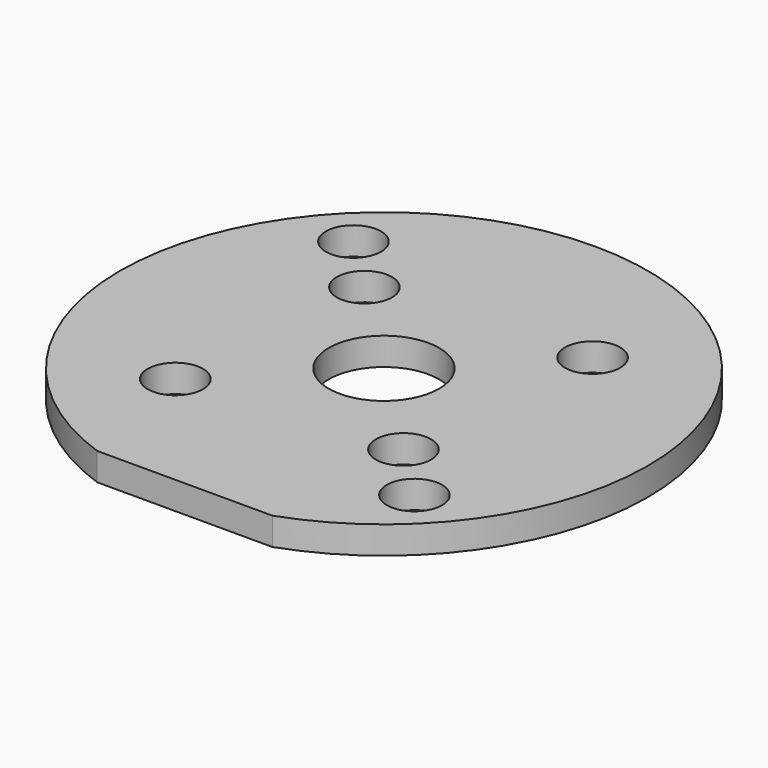
from build123d import *

# Parameters (mm, degrees)
F0_R     = 1.6
F0_R_2   = 3.2
F1_DEPTH = 1.6


with BuildPart() as f1:
    # F0 (on Top) → F1 (new body)
    with BuildSketch(Plane.XY):
        with BuildLine():
            Line((-5.08, -14.432034), (5.08, -14.432034))
            ThreePointArc((5.08, -14.432034), (0, 15.3), (-5.08, -14.432034))
        make_face()
        with Locations((-6.717514, -6.717514)):
            Circle(F0_R, mode=Mode.SUBTRACT)
        with Locations((8.838835, -8.838835)):
            Circle(F0_R, mode=Mode.SUBTRACT)
        with Locations((5.656854, -5.656854)):
            Circle(F0_R, mode=Mode.SUBTRACT)
        Circle(F0_R_2, mode=Mode.SUBTRACT)
        with Locations((-5.656854, 5.656854)):
            Circle(F0_R, mode=Mode.SUBTRACT)
        with Locations((-8.838835, 8.838835)):
            Circle(F0_R, mode=Mode.SUBTRACT)
        with Locations((6.717514, 6.717514)):
            Circle(F0_R, mode=Mode.SUBTRACT)
    extrude(amount=F1_DEPTH)


solid = f1.part
